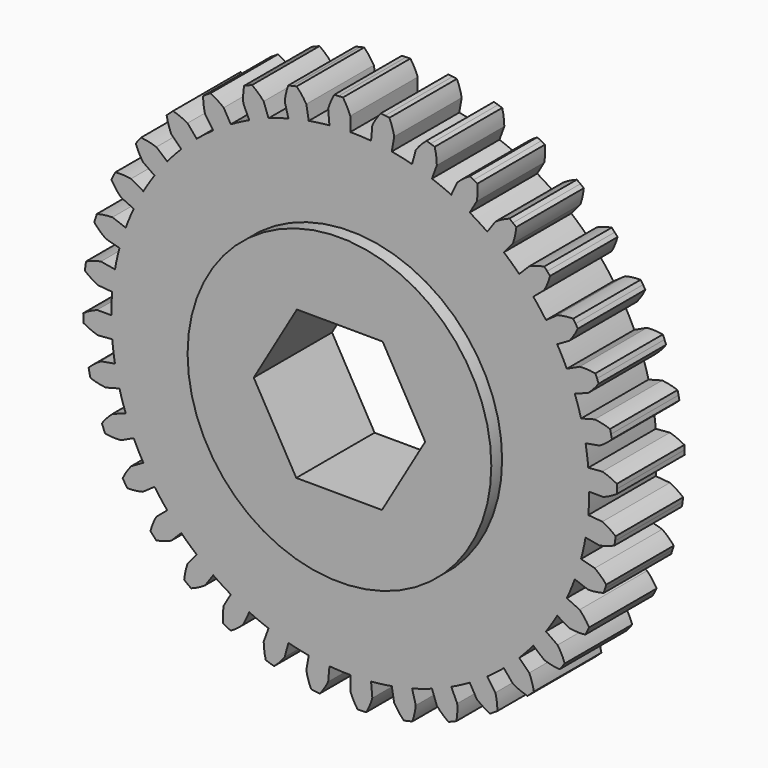
from build123d import *

# Parameters (mm, degrees)
F1_DEPTH = 6.35
F2_R     = 11.43
F3_DEPTH = 7.366
F5_DEPTH = 254


with BuildPart() as f1:
    # F0 (on Front) → F1 (new body)
    with BuildSketch(Plane.XZ):
        with BuildLine():
            Line((-1.660317, 18.977509), (-1.567339, 17.914768))
            ThreePointArc((-1.567339, 17.914768), (-2.347279, 17.829351), (-3.12275, 17.709995))
            Line((-3.12275, 17.709995), (-3.307998, 18.760588))
            ThreePointArc((-3.307998, 18.760588), (-3.641236, 19.250621), (-4.032752, 19.695475))
            ThreePointArc((-4.032752, 19.695475), (-4.192175, 19.662159), (-4.351324, 19.627553))
            ThreePointArc((-4.351324, 19.627553), (-4.510187, 19.591658), (-4.668753, 19.554477))
            ThreePointArc((-4.668753, 19.554477), (-4.835583, 18.98584), (-4.930503, 18.400887))
            Line((-4.930503, 18.400887), (-4.654395, 17.370437))
            ThreePointArc((-4.654395, 17.370437), (-5.407653, 17.150883), (-6.150617, 16.89868))
            Line((-6.150617, 16.89868), (-6.515484, 17.901144))
            ThreePointArc((-6.515484, 17.901144), (-6.928753, 18.325867), (-7.391568, 18.695977))
            ThreePointArc((-7.391568, 18.695977), (-7.542785, 18.635483), (-7.693506, 18.573767))
            ThreePointArc((-7.693506, 18.573767), (-7.843722, 18.510831), (-7.993424, 18.44668))
            ThreePointArc((-7.993424, 18.44668), (-8.058977, 17.857713), (-8.050878, 17.265163))
            Line((-8.050878, 17.265163), (-7.600029, 16.298314))
            ThreePointArc((-7.600029, 16.298314), (-8.303718, 15.951293), (-8.9916, 15.573908))
            Line((-8.9916, 15.573908), (-9.525, 16.497784))
            ThreePointArc((-9.525, 16.497784), (-10.005743, 16.84429), (-10.525796, 17.128411))
            ThreePointArc((-10.525796, 17.128411), (-10.664211, 17.042578), (-10.801925, 16.955626))
            ThreePointArc((-10.801925, 16.955626), (-10.938931, 16.867562), (-11.075218, 16.77839))
            ThreePointArc((-11.075218, 16.77839), (-11.037502, 16.186987), (-10.926631, 15.604846))
            Line((-10.926631, 15.604846), (-10.31474, 14.730975))
            ThreePointArc((-10.31474, 14.730975), (-10.947479, 14.267032), (-11.559378, 13.77593))
            Line((-11.559378, 13.77593), (-12.245104, 14.593147))
            ThreePointArc((-12.245104, 14.593147), (-12.778713, 14.850909), (-13.340203, 15.040406))
            ThreePointArc((-13.340203, 15.040406), (-13.46161, 14.931842), (-13.582133, 14.822297))
            ThreePointArc((-13.582133, 14.822297), (-13.701765, 14.71178), (-13.820498, 14.600297))
            ThreePointArc((-13.820498, 14.600297), (-13.680658, 14.024428), (-13.470384, 13.470384))
            Line((-13.470384, 13.470384), (-12.716043, 12.716043))
            ThreePointArc((-12.716043, 12.716043), (-13.258606, 12.149274), (-13.77593, 11.559378))
            Line((-13.77593, 11.559378), (-14.593147, 12.245104))
            ThreePointArc((-14.593147, 12.245104), (-15.163409, 12.40629), (-15.749274, 12.495407))
            ThreePointArc((-15.749274, 12.495407), (-15.849985, 12.36741), (-15.949655, 12.238601))
            ThreePointArc((-15.949655, 12.238601), (-16.048278, 12.108989), (-16.145848, 11.978582))
            ThreePointArc((-16.145848, 11.978582), (-15.908135, 11.435744), (-15.604846, 10.926631))
            Line((-15.604846, 10.926631), (-14.730975, 10.31474))
            ThreePointArc((-14.730975, 10.31474), (-15.166877, 9.662366), (-15.573908, 8.9916))
            Line((-15.573908, 8.9916), (-16.497784, 9.525))
            ThreePointArc((-16.497784, 9.525), (-17.087372, 9.584712), (-17.679812, 9.570741))
            ThreePointArc((-17.679812, 9.570741), (-17.756766, 9.4272), (-17.832554, 9.28304))
            ThreePointArc((-17.832554, 9.28304), (-17.907173, 9.138272), (-17.980615, 8.992903))
            ThreePointArc((-17.980615, 8.992903), (-17.652251, 8.499591), (-17.265163, 8.050878))
            Line((-17.265163, 8.050878), (-16.298314, 7.600029))
            ThreePointArc((-16.298314, 7.600029), (-16.61431, 6.881873), (-16.89868, 6.150617))
            Line((-16.89868, 6.150617), (-17.901144, 6.515484))
            ThreePointArc((-17.901144, 6.515484), (-18.492145, 6.471908), (-19.073158, 6.355272))
            ThreePointArc((-19.073158, 6.355272), (-19.124017, 6.200549), (-19.173621, 6.045419))
            ThreePointArc((-19.173621, 6.045419), (-19.221967, 5.889893), (-19.269051, 5.73398))
            ThreePointArc((-19.269051, 5.73398), (-18.860012, 5.305182), (-18.400887, 4.930503))
            Line((-18.400887, 4.930503), (-17.370437, 4.654395))
            ThreePointArc((-17.370437, 4.654395), (-17.556926, 3.892277), (-17.709995, 3.12275))
            Line((-17.709995, 3.12275), (-18.760588, 3.307998))
            ThreePointArc((-18.760588, 3.307998), (-19.335042, 3.162458), (-19.886975, 2.946702))
            ThreePointArc((-19.886975, 2.946702), (-19.910194, 2.785498), (-19.932107, 2.624112))
            ThreePointArc((-19.932107, 2.624112), (-19.952711, 2.462553), (-19.972006, 2.300832))
            ThreePointArc((-19.972006, 2.300832), (-19.494721, 1.949578), (-18.977509, 1.660317))
            Line((-18.977509, 1.660317), (-17.914768, 1.567339))
            ThreePointArc((-17.914768, 1.567339), (-17.966084, 0.784416), (-17.9832, 0))
            Line((-17.9832, 0), (-19.05, 0))
            ThreePointArc((-19.05, 0), (-19.590455, -0.243082), (-20.096537, -0.551402))
            ThreePointArc((-20.096537, -0.551402), (-20.09141, -0.714188), (-20.084965, -0.876929))
            ThreePointArc((-20.084965, -0.876929), (-20.077202, -1.039611), (-20.068121, -1.202225))
            ThreePointArc((-20.068121, -1.202225), (-19.537093, -1.465264), (-18.977509, -1.660317))
            Line((-18.977509, -1.660317), (-17.914768, -1.567339))
            ThreePointArc((-17.914768, -1.567339), (-17.829351, -2.347279), (-17.709995, -3.12275))
            Line((-17.709995, -3.12275), (-18.760588, -3.307998))
            ThreePointArc((-18.760588, -3.307998), (-19.250621, -3.641236), (-19.695475, -4.032752))
            ThreePointArc((-19.695475, -4.032752), (-19.662159, -4.192175), (-19.627553, -4.351324))
            ThreePointArc((-19.627553, -4.351324), (-19.591658, -4.510187), (-19.554477, -4.668753))
            ThreePointArc((-19.554477, -4.668753), (-18.98584, -4.835583), (-18.400887, -4.930503))
            Line((-18.400887, -4.930503), (-17.370437, -4.654395))
            ThreePointArc((-17.370437, -4.654395), (-17.150883, -5.407653), (-16.89868, -6.150617))
            Line((-16.89868, -6.150617), (-17.901144, -6.515484))
            ThreePointArc((-17.901144, -6.515484), (-18.325867, -6.928753), (-18.695977, -7.391568))
            ThreePointArc((-18.695977, -7.391568), (-18.635483, -7.542785), (-18.573767, -7.693506))
            ThreePointArc((-18.573767, -7.693506), (-18.510831, -7.843722), (-18.44668, -7.993424))
            ThreePointArc((-18.44668, -7.993424), (-17.857713, -8.058977), (-17.265163, -8.050878))
            Line((-17.265163, -8.050878), (-16.298314, -7.600029))
            ThreePointArc((-16.298314, -7.600029), (-15.951293, -8.303718), (-15.573908, -8.9916))
            Line((-15.573908, -8.9916), (-16.497784, -9.525))
            ThreePointArc((-16.497784, -9.525), (-16.84429, -10.005743), (-17.128411, -10.525796))
            ThreePointArc((-17.128411, -10.525796), (-17.042578, -10.664211), (-16.955626, -10.801925))
            ThreePointArc((-16.955626, -10.801925), (-16.867562, -10.938931), (-16.77839, -11.075218))
            ThreePointArc((-16.77839, -11.075218), (-16.186987, -11.037502), (-15.604846, -10.926631))
            Line((-15.604846, -10.926631), (-14.730975, -10.31474))
            ThreePointArc((-14.730975, -10.31474), (-14.267032, -10.947479), (-13.77593, -11.559378))
            Line((-13.77593, -11.559378), (-14.593147, -12.245104))
            ThreePointArc((-14.593147, -12.245104), (-14.850909, -12.778713), (-15.040406, -13.340203))
            ThreePointArc((-15.040406, -13.340203), (-14.931842, -13.46161), (-14.822297, -13.582133))
            ThreePointArc((-14.822297, -13.582133), (-14.71178, -13.701765), (-14.600297, -13.820498))
            ThreePointArc((-14.600297, -13.820498), (-14.024428, -13.680658), (-13.470384, -13.470384))
            Line((-13.470384, -13.470384), (-12.716043, -12.716043))
            ThreePointArc((-12.716043, -12.716043), (-12.149274, -13.258606), (-11.559378, -13.77593))
            Line((-11.559378, -13.77593), (-12.245104, -14.593147))
            ThreePointArc((-12.245104, -14.593147), (-12.40629, -15.163409), (-12.495407, -15.749274))
            ThreePointArc((-12.495407, -15.749274), (-12.36741, -15.849985), (-12.238601, -15.949655))
            ThreePointArc((-12.238601, -15.949655), (-12.108989, -16.048278), (-11.978582, -16.145848))
            ThreePointArc((-11.978582, -16.145848), (-11.435744, -15.908135), (-10.926631, -15.604846))
            Line((-10.926631, -15.604846), (-10.31474, -14.730975))
            ThreePointArc((-10.31474, -14.730975), (-9.662366, -15.166877), (-8.9916, -15.573908))
            Line((-8.9916, -15.573908), (-9.525, -16.497784))
            ThreePointArc((-9.525, -16.497784), (-9.584712, -17.087372), (-9.570741, -17.679812))
            ThreePointArc((-9.570741, -17.679812), (-9.4272, -17.756766), (-9.28304, -17.832554))
            ThreePointArc((-9.28304, -17.832554), (-9.138272, -17.907173), (-8.992903, -17.980615))
            ThreePointArc((-8.992903, -17.980615), (-8.499591, -17.652251), (-8.050878, -17.265163))
            Line((-8.050878, -17.265163), (-7.600029, -16.298314))
            ThreePointArc((-7.600029, -16.298314), (-6.881873, -16.61431), (-6.150617, -16.89868))
            Line((-6.150617, -16.89868), (-6.515484, -17.901144))
            ThreePointArc((-6.515484, -17.901144), (-6.471908, -18.492145), (-6.355272, -19.073158))
            ThreePointArc((-6.355272, -19.073158), (-6.200549, -19.124017), (-6.045419, -19.173621))
            ThreePointArc((-6.045419, -19.173621), (-5.889893, -19.221967), (-5.73398, -19.269051))
            ThreePointArc((-5.73398, -19.269051), (-5.305182, -18.860012), (-4.930503, -18.400887))
            Line((-4.930503, -18.400887), (-4.654395, -17.370437))
            ThreePointArc((-4.654395, -17.370437), (-3.892277, -17.556926), (-3.12275, -17.709995))
            Line((-3.12275, -17.709995), (-3.307998, -18.760588))
            ThreePointArc((-3.307998, -18.760588), (-3.162458, -19.335042), (-2.946702, -19.886975))
            ThreePointArc((-2.946702, -19.886975), (-2.785498, -19.910194), (-2.624112, -19.932107))
            ThreePointArc((-2.624112, -19.932107), (-2.462553, -19.952711), (-2.300832, -19.972006))
            ThreePointArc((-2.300832, -19.972006), (-1.949578, -19.494721), (-1.660317, -18.977509))
            Line((-1.660317, -18.977509), (-1.567339, -17.914768))
            ThreePointArc((-1.567339, -17.914768), (-0.784416, -17.966084), (0, -17.9832))
            Line((0, -17.9832), (0, -19.05))
            ThreePointArc((0, -19.05), (0.243082, -19.590455), (0.551402, -20.096537))
            ThreePointArc((0.551402, -20.096537), (0.714188, -20.09141), (0.876929, -20.084965))
            ThreePointArc((0.876929, -20.084965), (1.039611, -20.077202), (1.202225, -20.068121))
            ThreePointArc((1.202225, -20.068121), (1.465264, -19.537093), (1.660317, -18.977509))
            Line((1.660317, -18.977509), (1.567339, -17.914768))
            ThreePointArc((1.567339, -17.914768), (2.347279, -17.829351), (3.12275, -17.709995))
            Line((3.12275, -17.709995), (3.307998, -18.760588))
            ThreePointArc((3.307998, -18.760588), (3.641236, -19.250621), (4.032752, -19.695475))
            ThreePointArc((4.032752, -19.695475), (4.192175, -19.662159), (4.351324, -19.627553))
            ThreePointArc((4.351324, -19.627553), (4.510187, -19.591658), (4.668753, -19.554477))
            ThreePointArc((4.668753, -19.554477), (4.835583, -18.98584), (4.930503, -18.400887))
            Line((4.930503, -18.400887), (4.654395, -17.370437))
            ThreePointArc((4.654395, -17.370437), (5.407653, -17.150883), (6.150617, -16.89868))
            Line((6.150617, -16.89868), (6.515484, -17.901144))
            ThreePointArc((6.515484, -17.901144), (6.928753, -18.325867), (7.391568, -18.695977))
            ThreePointArc((7.391568, -18.695977), (7.542785, -18.635483), (7.693506, -18.573767))
            ThreePointArc((7.693506, -18.573767), (7.843722, -18.510831), (7.993424, -18.44668))
            ThreePointArc((7.993424, -18.44668), (8.058977, -17.857713), (8.050878, -17.265163))
            Line((8.050878, -17.265163), (7.600029, -16.298314))
            ThreePointArc((7.600029, -16.298314), (8.303718, -15.951293), (8.9916, -15.573908))
            Line((8.9916, -15.573908), (9.525, -16.497784))
            ThreePointArc((9.525, -16.497784), (10.005743, -16.84429), (10.525796, -17.128411))
            ThreePointArc((10.525796, -17.128411), (10.664211, -17.042578), (10.801925, -16.955626))
            ThreePointArc((10.801925, -16.955626), (10.938931, -16.867562), (11.075218, -16.77839))
            ThreePointArc((11.075218, -16.77839), (11.037502, -16.186987), (10.926631, -15.604846))
            Line((10.926631, -15.604846), (10.31474, -14.730975))
            ThreePointArc((10.31474, -14.730975), (10.947479, -14.267032), (11.559378, -13.77593))
            Line((11.559378, -13.77593), (12.245104, -14.593147))
            ThreePointArc((12.245104, -14.593147), (12.778713, -14.850909), (13.340203, -15.040406))
            ThreePointArc((13.340203, -15.040406), (13.46161, -14.931842), (13.582133, -14.822297))
            ThreePointArc((13.582133, -14.822297), (13.701765, -14.71178), (13.820498, -14.600297))
            ThreePointArc((13.820498, -14.600297), (13.680658, -14.024428), (13.470384, -13.470384))
            Line((13.470384, -13.470384), (12.716043, -12.716043))
            ThreePointArc((12.716043, -12.716043), (13.258606, -12.149274), (13.77593, -11.559378))
            Line((13.77593, -11.559378), (14.593147, -12.245104))
            ThreePointArc((14.593147, -12.245104), (15.163409, -12.40629), (15.749274, -12.495407))
            ThreePointArc((15.749274, -12.495407), (15.849985, -12.36741), (15.949655, -12.238601))
            ThreePointArc((15.949655, -12.238601), (16.048278, -12.108989), (16.145848, -11.978582))
            ThreePointArc((16.145848, -11.978582), (15.908135, -11.435744), (15.604846, -10.926631))
            Line((15.604846, -10.926631), (14.730975, -10.31474))
            ThreePointArc((14.730975, -10.31474), (15.166877, -9.662366), (15.573908, -8.9916))
            Line((15.573908, -8.9916), (16.497784, -9.525))
            ThreePointArc((16.497784, -9.525), (17.087372, -9.584712), (17.679812, -9.570741))
            ThreePointArc((17.679812, -9.570741), (17.756766, -9.4272), (17.832554, -9.28304))
            ThreePointArc((17.832554, -9.28304), (17.907173, -9.138272), (17.980615, -8.992903))
            ThreePointArc((17.980615, -8.992903), (17.652251, -8.499591), (17.265163, -8.050878))
            Line((17.265163, -8.050878), (16.298314, -7.600029))
            ThreePointArc((16.298314, -7.600029), (16.61431, -6.881873), (16.89868, -6.150617))
            Line((16.89868, -6.150617), (17.901144, -6.515484))
            ThreePointArc((17.901144, -6.515484), (18.492145, -6.471908), (19.073158, -6.355272))
            ThreePointArc((19.073158, -6.355272), (19.124017, -6.200549), (19.173621, -6.045419))
            ThreePointArc((19.173621, -6.045419), (19.221967, -5.889893), (19.269051, -5.73398))
            ThreePointArc((19.269051, -5.73398), (18.860012, -5.305182), (18.400887, -4.930503))
            Line((18.400887, -4.930503), (17.370437, -4.654395))
            ThreePointArc((17.370437, -4.654395), (17.556926, -3.892277), (17.709995, -3.12275))
            Line((17.709995, -3.12275), (18.760588, -3.307998))
            ThreePointArc((18.760588, -3.307998), (19.335042, -3.162458), (19.886975, -2.946702))
            ThreePointArc((19.886975, -2.946702), (19.910194, -2.785498), (19.932107, -2.624112))
            ThreePointArc((19.932107, -2.624112), (19.952711, -2.462553), (19.972006, -2.300832))
            ThreePointArc((19.972006, -2.300832), (19.494721, -1.949578), (18.977509, -1.660317))
            Line((18.977509, -1.660317), (17.914768, -1.567339))
            ThreePointArc((17.914768, -1.567339), (17.966084, -0.784416), (17.9832, 0))
            Line((17.9832, 0), (19.05, 0))
            ThreePointArc((19.05, 0), (19.590455, 0.243082), (20.096537, 0.551402))
            ThreePointArc((20.096537, 0.551402), (20.09141, 0.714188), (20.084965, 0.876929))
            ThreePointArc((20.084965, 0.876929), (20.077202, 1.039611), (20.068121, 1.202225))
            ThreePointArc((20.068121, 1.202225), (19.537093, 1.465264), (18.977509, 1.660317))
            Line((18.977509, 1.660317), (17.914768, 1.567339))
            ThreePointArc((17.914768, 1.567339), (17.829351, 2.347279), (17.709995, 3.12275))
            Line((17.709995, 3.12275), (18.760588, 3.307998))
            ThreePointArc((18.760588, 3.307998), (19.250621, 3.641236), (19.695475, 4.032752))
            ThreePointArc((19.695475, 4.032752), (19.662159, 4.192175), (19.627553, 4.351324))
            ThreePointArc((19.627553, 4.351324), (19.591658, 4.510187), (19.554477, 4.668753))
            ThreePointArc((19.554477, 4.668753), (18.98584, 4.835583), (18.400887, 4.930503))
            Line((18.400887, 4.930503), (17.370437, 4.654395))
            ThreePointArc((17.370437, 4.654395), (17.150883, 5.407653), (16.89868, 6.150617))
            Line((16.89868, 6.150617), (17.901144, 6.515484))
            ThreePointArc((17.901144, 6.515484), (18.325867, 6.928753), (18.695977, 7.391568))
            ThreePointArc((18.695977, 7.391568), (18.635483, 7.542785), (18.573767, 7.693506))
            ThreePointArc((18.573767, 7.693506), (18.510831, 7.843722), (18.44668, 7.993424))
            ThreePointArc((18.44668, 7.993424), (17.857713, 8.058977), (17.265163, 8.050878))
            Line((17.265163, 8.050878), (16.298314, 7.600029))
            ThreePointArc((16.298314, 7.600029), (15.951293, 8.303718), (15.573908, 8.9916))
            Line((15.573908, 8.9916), (16.497784, 9.525))
            ThreePointArc((16.497784, 9.525), (16.84429, 10.005743), (17.128411, 10.525796))
            ThreePointArc((17.128411, 10.525796), (17.042578, 10.664211), (16.955626, 10.801925))
            ThreePointArc((16.955626, 10.801925), (16.867562, 10.938931), (16.77839, 11.075218))
            ThreePointArc((16.77839, 11.075218), (16.186987, 11.037502), (15.604846, 10.926631))
            Line((15.604846, 10.926631), (14.730975, 10.31474))
            ThreePointArc((14.730975, 10.31474), (14.267032, 10.947479), (13.77593, 11.559378))
            Line((13.77593, 11.559378), (14.593147, 12.245104))
            ThreePointArc((14.593147, 12.245104), (14.850909, 12.778713), (15.040406, 13.340203))
            ThreePointArc((15.040406, 13.340203), (14.931842, 13.46161), (14.822297, 13.582133))
            ThreePointArc((14.822297, 13.582133), (14.71178, 13.701765), (14.600297, 13.820498))
            ThreePointArc((14.600297, 13.820498), (14.024428, 13.680658), (13.470384, 13.470384))
            Line((13.470384, 13.470384), (12.716043, 12.716043))
            ThreePointArc((12.716043, 12.716043), (12.149274, 13.258606), (11.559378, 13.77593))
            Line((11.559378, 13.77593), (12.245104, 14.593147))
            ThreePointArc((12.245104, 14.593147), (12.40629, 15.163409), (12.495407, 15.749274))
            ThreePointArc((12.495407, 15.749274), (12.36741, 15.849985), (12.238601, 15.949655))
            ThreePointArc((12.238601, 15.949655), (12.108989, 16.048278), (11.978582, 16.145848))
            ThreePointArc((11.978582, 16.145848), (11.435744, 15.908135), (10.926631, 15.604846))
            Line((10.926631, 15.604846), (10.31474, 14.730975))
            ThreePointArc((10.31474, 14.730975), (9.662366, 15.166877), (8.9916, 15.573908))
            Line((8.9916, 15.573908), (9.525, 16.497784))
            ThreePointArc((9.525, 16.497784), (9.584712, 17.087372), (9.570741, 17.679812))
            ThreePointArc((9.570741, 17.679812), (9.4272, 17.756766), (9.28304, 17.832554))
            ThreePointArc((9.28304, 17.832554), (9.138272, 17.907173), (8.992903, 17.980615))
            ThreePointArc((8.992903, 17.980615), (8.499591, 17.652251), (8.050878, 17.265163))
            Line((8.050878, 17.265163), (7.600029, 16.298314))
            ThreePointArc((7.600029, 16.298314), (6.881873, 16.61431), (6.150617, 16.89868))
            Line((6.150617, 16.89868), (6.515484, 17.901144))
            ThreePointArc((6.515484, 17.901144), (6.471908, 18.492145), (6.355272, 19.073158))
            ThreePointArc((6.355272, 19.073158), (6.200549, 19.124017), (6.045419, 19.173621))
            ThreePointArc((6.045419, 19.173621), (5.889893, 19.221967), (5.73398, 19.269051))
            ThreePointArc((5.73398, 19.269051), (5.305182, 18.860012), (4.930503, 18.400887))
            Line((4.930503, 18.400887), (4.654395, 17.370437))
            ThreePointArc((4.654395, 17.370437), (3.892277, 17.556926), (3.12275, 17.709995))
            Line((3.12275, 17.709995), (3.307998, 18.760588))
            ThreePointArc((3.307998, 18.760588), (3.162458, 19.335042), (2.946702, 19.886975))
            ThreePointArc((2.946702, 19.886975), (2.785498, 19.910194), (2.624112, 19.932107))
            ThreePointArc((2.624112, 19.932107), (2.462553, 19.952711), (2.300832, 19.972006))
            ThreePointArc((2.300832, 19.972006), (1.949578, 19.494721), (1.660317, 18.977509))
            Line((1.660317, 18.977509), (1.567339, 17.914768))
            ThreePointArc((1.567339, 17.914768), (0.784416, 17.966084), (0, 17.9832))
            Line((0, 17.9832), (0, 19.05))
            ThreePointArc((0, 19.05), (-0.243082, 19.590455), (-0.551402, 20.096537))
            ThreePointArc((-0.551402, 20.096537), (-0.714188, 20.09141), (-0.876929, 20.084965))
            ThreePointArc((-0.876929, 20.084965), (-1.039611, 20.077202), (-1.202225, 20.068121))
            ThreePointArc((-1.202225, 20.068121), (-1.465264, 19.537093), (-1.660317, 18.977509))
        make_face()
    extrude(amount=F1_DEPTH)

    # F2 (on Front) → F3 (join)
    with BuildSketch(Plane.XZ):
        Circle(F2_R)
    extrude(amount=F3_DEPTH)

    # F4 (on face) → F5 (cut)
    with BuildSketch(Plane.XZ.offset(7.366)):
        Polygon((6.45241, -0.026983), (3.249573, 5.57446), (-3.202838, 5.601442), (-6.45241, 0.026983), (-3.249573, -5.57446), (3.202838, -5.601442), align=None)
    extrude(amount=-F5_DEPTH, mode=Mode.SUBTRACT)


solid = f1.part
